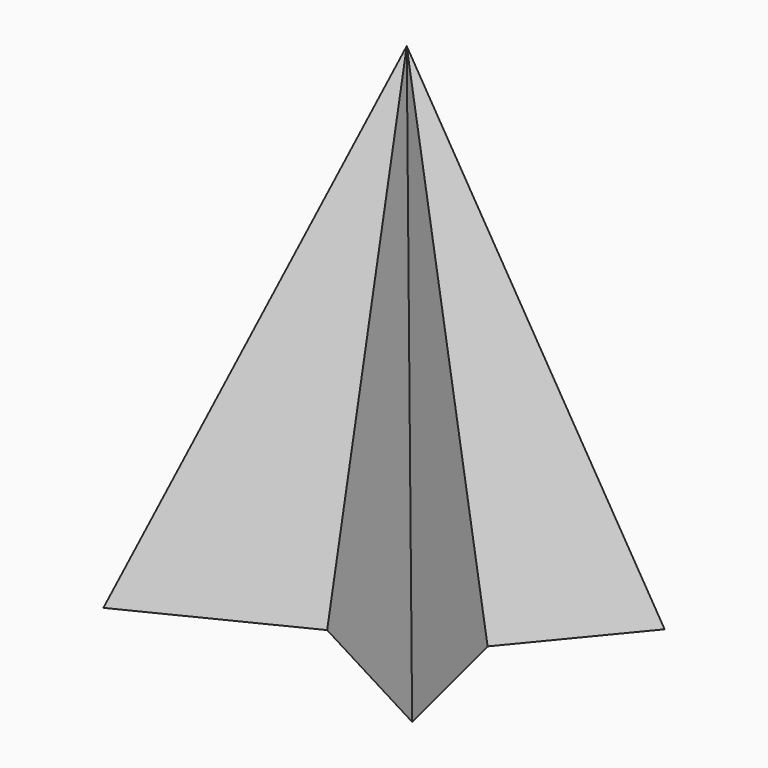
from build123d import *


with BuildPart() as f3:
    # F0 (on Top) → F3 section 0
    with BuildSketch(Plane.XY, mode=Mode.PRIVATE) as f3_s0:
        Polygon((12.874082, 9.764426), (0, 37.163116), (-11.950492, 9.764426), (-42.497884, 9.764426), (-20.986229, -10.930329), (-30.388767, -36.871642), (0, -21.714916), (28.273113, -36.871642), (21.860655, -10.930329), (38.933831, 9.764426), align=None)
    loft([Vertex(0, -2.818116, 90), f3_s0.sketch])


solid = f3.part
